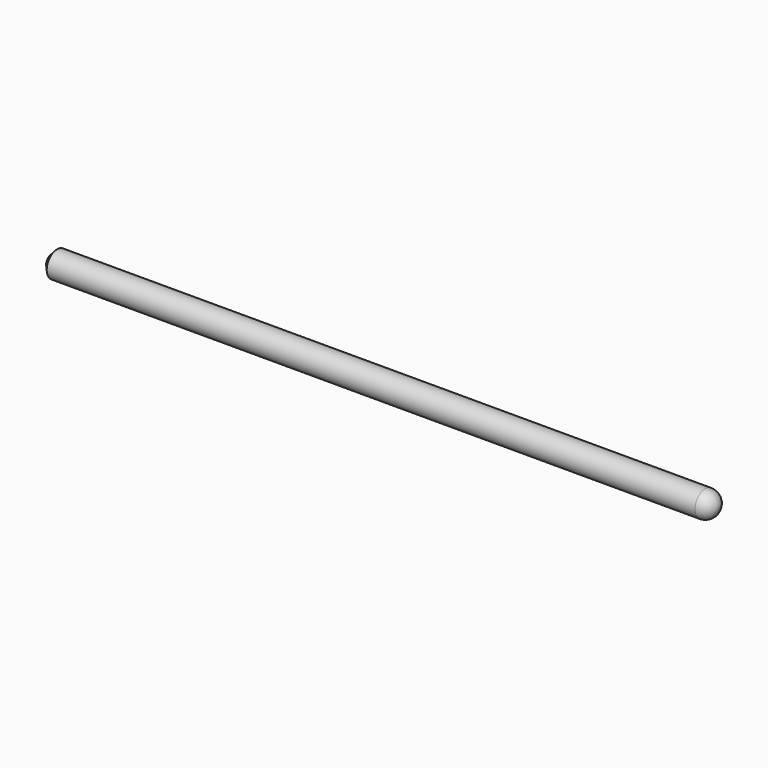
from build123d import *

# Parameters (mm, degrees)
F0_R     = 10
F1_DEPTH = 500


with BuildPart() as f1:
    # F0 (on Right) → F1 (new body)
    with BuildSketch(Plane.YZ):
        Circle(F0_R)
    extrude(amount=F1_DEPTH)

    # F2 (on Front) → F3 (revolve)
    with BuildSketch(Plane.XZ):
        Polygon((-4.5, -5), (0, -9.90314), (0, 0), (-4.5, 0), align=None)
    revolve(axis=Axis((-2.25, 0, 0), (1, 0, 0)))

    # F4 (on Front) → F5 (revolve, cut)
    with BuildSketch(Plane.XZ):
        with BuildLine():
            Line((-5, 0), (0, 0))
            ThreePointArc((0, 0), (-1.464466, 3.535534), (-5, 5))
            Line((-5, 5), (-5, 0))
        make_face()
    revolve(axis=Axis((-7.712245, 0, 0), (-1, 0, 0)), mode=Mode.SUBTRACT)

    # F6 (on Front) → F7 (revolve)
    with BuildSketch(Plane.XZ):
        with BuildLine():
            Line((500, 0), (510, 0))
            ThreePointArc((510, 0), (507.071068, 7.071068), (500, 10))
            Line((500, 10), (500, 0))
        make_face()
    revolve(axis=Axis((505, 0, 0), (1, 0, 0)))


solid = f1.part
